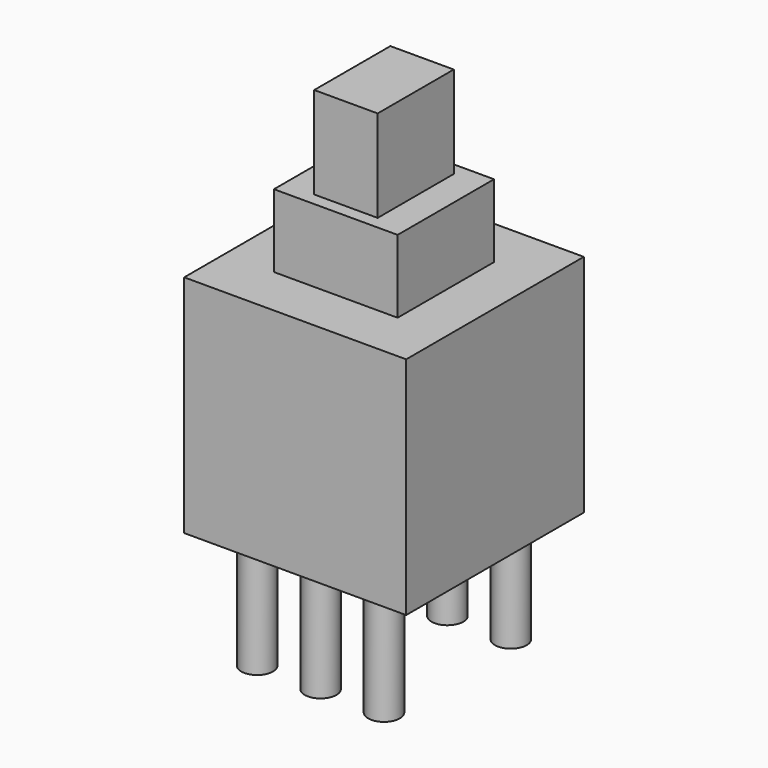
from build123d import *

# Parameters (mm, degrees)
SKETCH069_W  = 7
SKETCH069_H  = 7
PAD039_DEPTH = 7.1
SKETCH070_R  = 0.5
PAD040_DEPTH = 3.6
SKETCH071_W  = 3.9
SKETCH071_H  = 3.8
PAD041_DEPTH = 9.4
SKETCH072_W  = 2
SKETCH072_H  = 3
PAD042_DEPTH = 12.3


with BuildPart() as part:
    # Sketch069 → Pad039 (new body)
    with BuildSketch(Plane.XY):
        Rectangle(SKETCH069_W, SKETCH069_H)
    extrude(amount=PAD039_DEPTH)

    # Sketch070 → Pad040 (join)
    with BuildSketch(Plane.XY):
        with Locations((0, 2.5)):
            Circle(SKETCH070_R)
        with Locations((0, -2.5)):
            Circle(SKETCH070_R)
        with Locations((2, 2.5)):
            Circle(SKETCH070_R)
        with Locations((-2, 2.5)):
            Circle(SKETCH070_R)
        with Locations((-2, -2.5)):
            Circle(SKETCH070_R)
        with Locations((2, -2.5)):
            Circle(SKETCH070_R)
    extrude(amount=-PAD040_DEPTH)

    # Sketch071 → Pad041 (join)
    with BuildSketch(Plane.XY):
        Rectangle(SKETCH071_W, SKETCH071_H)
    extrude(amount=PAD041_DEPTH)

    # Sketch072 → Pad042 (join)
    with BuildSketch(Plane.XY):
        Rectangle(SKETCH072_W, SKETCH072_H)
    extrude(amount=PAD042_DEPTH)


with BuildPart() as part_1:
    # Body056 placement: moved
    add(part.part.moved(Location((0, 8.2, 0))))


solid = part_1.part
